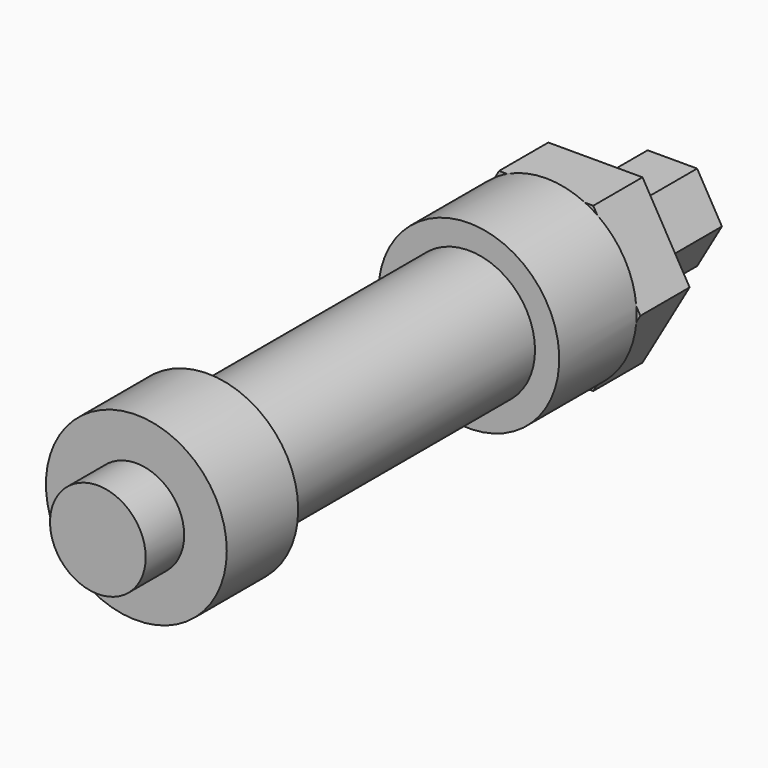
from build123d import *

# Parameters (mm, degrees)
F0_R       = 10.922
F1_DEPTH   = 68.58
F2_R       = 14.9225
F1_FACE1_R = 10.922
F3_DEPTH   = 15.9512
F4_R       = 14.9225
F5_DEPTH   = 14.732
F6_R       = 7.89305
F3_FACE1_R = 14.9225
F7_DEPTH   = 7.9375
F9_DEPTH   = 10.16
F11_DEPTH  = 15.875


with BuildPart() as f1:
    # F0 (on Front) → F1 (new body)
    with BuildSketch(Plane.XZ):
        Circle(F0_R)
    extrude(amount=F1_DEPTH)

    # F2 (on face) + F1_face1 (on face) → F3 (join)
    with BuildSketch(Plane(origin=(0, 0, 0), x_dir=(-1, 0, 0), z_dir=(0, 1, 0))):
        Circle(F2_R)
    with BuildSketch(Plane.XZ.offset(68.58)):
        Circle(F1_FACE1_R)
    extrude(amount=-F3_DEPTH, dir=(0, 1, 0))

    # F4 (on face) → F5 (join)
    with BuildSketch(Plane.XZ.offset(84.5312)):
        Circle(F4_R)
    extrude(amount=-F5_DEPTH)

    # F6 (on face) + F3_face1 (on face) → F7 (join)
    with BuildSketch(Plane.XZ.offset(84.5312)):
        Circle(F6_R)
    with BuildSketch(Plane(origin=(0, 0, 0), x_dir=(-1, 0, 0), z_dir=(0, 1, 0))):
        Circle(F3_FACE1_R)
    extrude(amount=F7_DEPTH, dir=(0, -1, 0))

    # F8 (on face) → F9 (join)
    with BuildSketch(Plane(origin=(0, 0, 0), x_dir=(-1, 0, 0), z_dir=(0, 1, 0))):
        Polygon((-7.7722893238, -13.462), (7.7722893238, -13.462), (15.5445786477, 0), (7.7722893238, 13.462), (-7.7722893238, 13.462), (-15.5445786477, 0), align=None)
    extrude(amount=F9_DEPTH)

    # F10 (on face) → F11 (join)
    with BuildSketch(Plane(origin=(0, 10.16, 0), x_dir=(-1, 0, 0), z_dir=(0, 1, 0))):
        Polygon((-4.0877842434, -7.08025), (4.0877842434, -7.08025), (8.1755684869, 0), (4.0877842434, 7.08025), (-4.0877842434, 7.08025), (-8.1755684869, 0), align=None)
    extrude(amount=F11_DEPTH)


solid = f1.part
